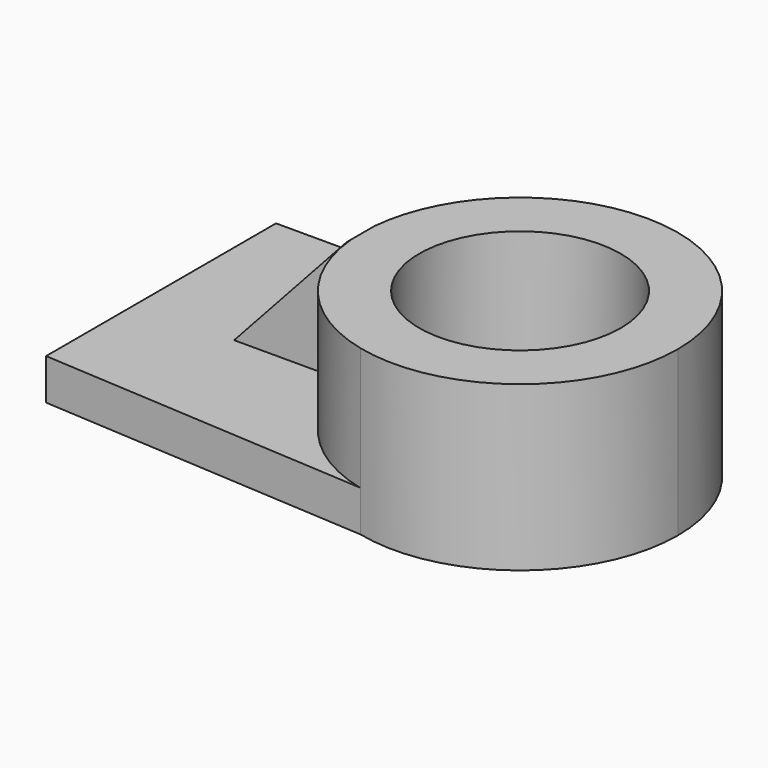
from build123d import *

# Parameters (mm, degrees)
F0_R     = 31.217266
F1_DEPTH = 50.8
F2_DEPTH = 12.7
F4_DEPTH = 38.862
F6_DEPTH = 177.8


with BuildPart() as f1:
    # F0 (on Top) → F1 (new body)
    with BuildSketch(Plane.XY):
        with BuildLine():
            ThreePointArc((27.24497, -47.55269), (68.940098, -38.406733), (87.569511, 0))
            ThreePointArc((87.569511, 0), (69.555113, 37.913842), (28.783381, 47.896017))
            ThreePointArc((28.783381, 47.896017), (-10.233562, 0.788128), (27.24497, -47.55269))
        make_face()
        with Locations((38.664799, 0)):
            Circle(F0_R, mode=Mode.SUBTRACT)
    extrude(amount=F1_DEPTH)

    # F0 (on Top) → F2 (join)
    with BuildSketch(Plane.XY):
        with BuildLine():
            ThreePointArc((27.24497, -47.55269), (-10.233562, 0.788128), (28.783381, 47.896017))
            Line((28.783381, 47.896017), (-75.24436, 47.896017))
            Line((-75.24436, 47.896017), (-75.24436, -41.144535))
            Line((-75.24436, -41.144535), (27.24497, -47.55269))
        make_face()
    extrude(amount=F2_DEPTH)

    # F3 (on face) → F4 (join)
    with BuildSketch(Plane.XY.offset(50.8)):
        with BuildLine():
            ThreePointArc((-10.037816, -4.441411), (-10.239913, 0), (-10.037816, 4.441411))
            Line((-10.037816, 4.441411), (-44.907834, 4.441411))
            Line((-44.907834, 4.441411), (-44.907834, -6.231935))
            Line((-44.907834, -6.231935), (-10.037816, -6.231935))
            Line((-10.037816, -6.231935), (-10.037816, -4.441411))
        make_face()
    extrude(amount=-F4_DEPTH)

    # F5 (on face) → F6 (cut)
    with BuildSketch(Plane.XZ.offset(6.231935)):
        Polygon((-44.907834, 50.8), (-44.907834, 12.7), (-10.037816, 50.8), align=None)
    extrude(amount=-F6_DEPTH, mode=Mode.SUBTRACT)


solid = f1.part
